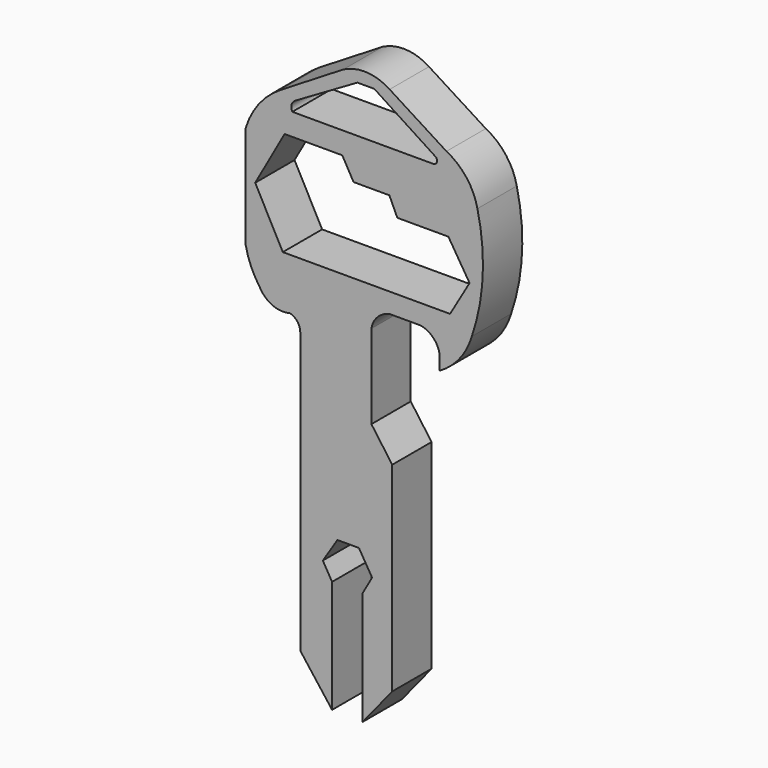
from build123d import *

# Parameters (mm, degrees)
F1_DEPTH = 5.08


with BuildPart() as f1:
    # F0 (on Front) → F1 (new body)
    with BuildSketch(Plane.XZ):
        with BuildLine():
            ThreePointArc((-12.657055, 5.565012), (-11.874042, 5.071942), (-11.568712, 4.198444))
            Line((-11.568712, 4.198444), (-11.568712, -24.777781))
            Line((-11.568712, -24.777781), (-8.280629, -29.093388))
            Line((-8.280629, -29.093388), (-8.280629, -17.449027))
            Line((-8.280629, -17.449027), (-9.236538, -15.825689))
            Line((-9.236538, -15.825689), (-7.729477, -13.46327))
            Line((-7.729477, -13.46327), (-5.509618, -13.46327))
            Line((-5.509618, -13.46327), (-4.145117, -15.72386))
            Line((-4.145117, -15.72386), (-5.12267, -17.449027))
            Line((-5.12267, -17.449027), (-5.12267, -29.162286))
            Line((-5.12267, -29.162286), (-2.065549, -25.394693))
            Line((-2.065549, -25.394693), (-2.065549, -4.775676))
            Line((-2.065549, -4.775676), (-4.218744, -1.785675))
            Line((-4.218744, -1.785675), (-4.218744, 6.906263))
            ThreePointArc((-4.218744, 6.906263), (-3.560843, 8.18477), (-2.282596, 8.843177))
            Line((-2.282596, 8.843177), (0.901456, 8.843177))
            ThreePointArc((0.901456, 8.843177), (2.153935, 8.166019), (2.817458, 6.906263))
            Line((2.817458, 6.906263), (2.817458, 5.355639))
            ThreePointArc((2.817458, 5.355639), (4.892934, 7.135056), (6.154197, 9.560574))
            ThreePointArc((6.154197, 9.560574), (7.281192, 15.425578), (6.734579, 21.372814))
            ThreePointArc((6.734579, 21.372814), (5.610944, 23.824417), (3.537622, 25.549019))
            Line((3.537622, 25.549019), (-2.334368, 29.270599))
            ThreePointArc((-2.334368, 29.270599), (-4.689683, 30.049504), (-7.115404, 29.529812))
            Line((-7.115404, 29.529812), (-13.645634, 25.525974))
            ThreePointArc((-13.645634, 25.525974), (-15.846093, 23.551689), (-17.203385, 20.925365))
            Line((-17.203385, 20.925365), (-17.203385, 10.271559))
            ThreePointArc((-17.203385, 10.271559), (-16.650146, 8.512263), (-15.743528, 6.906263))
            ThreePointArc((-15.743528, 6.906263), (-14.433163, 5.699755), (-12.657055, 5.565012))
        make_face()
        Polygon((-16.222466, 16.262803), (-13.185225, 21.685487), (-7.225577, 21.685487), (-6.061047, 19.630436), (-2.361955, 19.630436), (-1.539934, 17.849391), (3.734697, 17.849391), (5.92325, 14.340223), (3.907151, 10.884052), (-13.37127, 10.884052), align=None, mode=Mode.SUBTRACT)
        with BuildLine():
            ThreePointArc((2.441155, 24.670575), (2.551859, 24.241547), (2.206652, 23.963783))
            Line((2.206652, 23.963783), (-12.388455, 23.963783))
            ThreePointArc((-12.388455, 23.963783), (-12.459465, 24.606894), (-12.04193, 25.101161))
            Line((-12.04193, 25.101161), (-5.665703, 28.804559))
            Line((-5.665703, 28.804559), (-3.921934, 28.804559))
            Line((-3.921934, 28.804559), (2.441155, 24.670575))
        make_face(mode=Mode.SUBTRACT)
    extrude(amount=F1_DEPTH)


solid = f1.part
